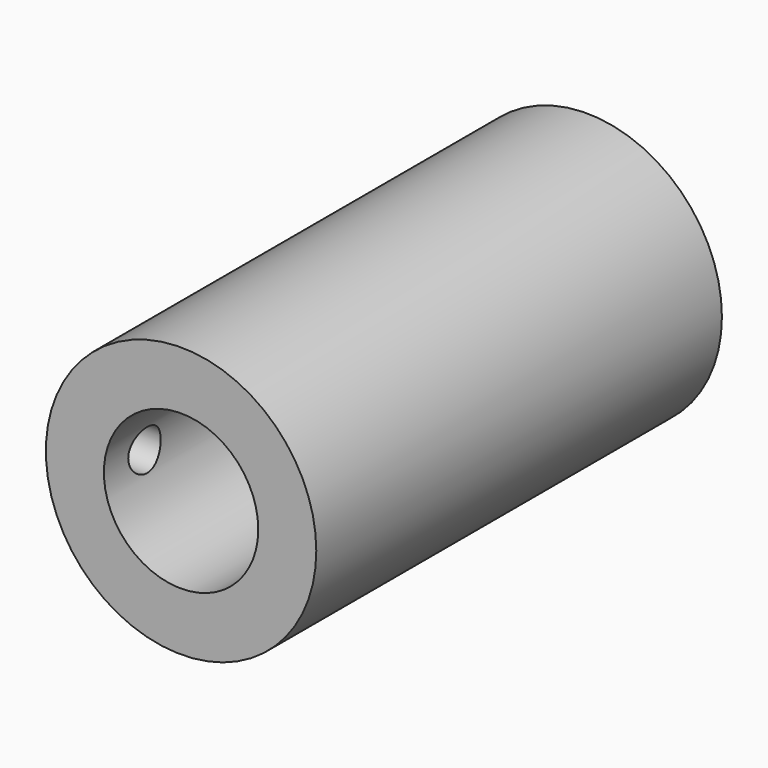
from build123d import *

# Parameters (mm, degrees)
F0_R     = 12
F1_DEPTH = 45
F2_R     = 6.85
F3_DEPTH = 50
F4_R     = 1.8
F5_DEPTH = 25
F6_R     = 2


with BuildPart() as f1:
    # F0 (on Front) → F1 (new body)
    with BuildSketch(Plane.XZ):
        Circle(F0_R)
    extrude(amount=F1_DEPTH)

    # F2 (on face) → F3 (cut)
    with BuildSketch(Plane.XZ.offset(45)):
        Circle(F2_R)
    extrude(amount=-F3_DEPTH, mode=Mode.SUBTRACT)

    # F4 (on Right) → F5 (cut)
    with BuildSketch(Plane.YZ):
        with Locations((-40.5, 0)):
            Circle(F4_R)
    extrude(amount=-F5_DEPTH, mode=Mode.SUBTRACT)

    # F6
    f6_edges = [f1.edges().sort_by_distance(p)[0] for p in [
        (-6.85, 0, 0),
    ]]
    fillet(f6_edges, radius=F6_R)


solid = f1.part
